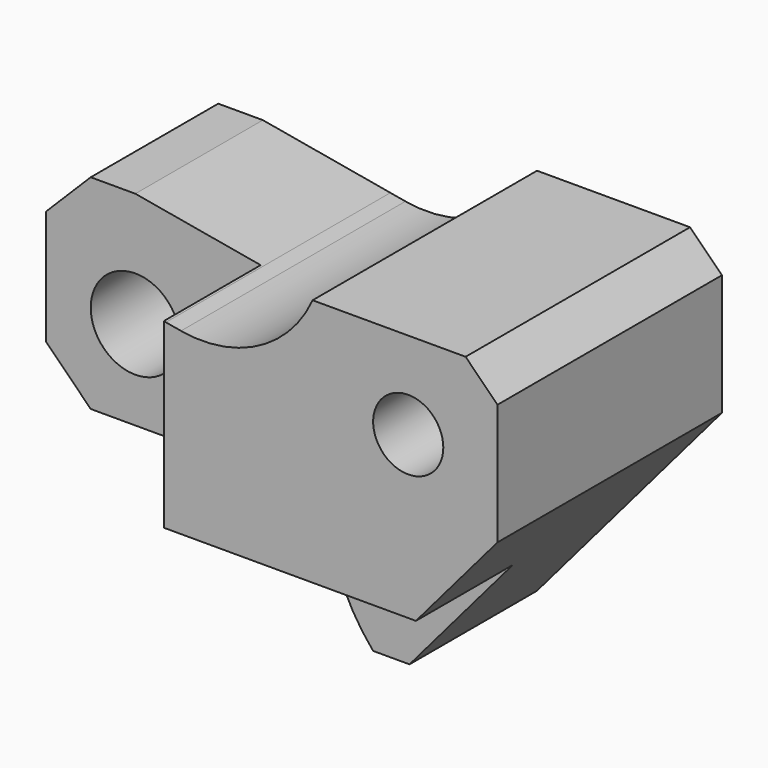
from build123d import *

# Parameters (mm, degrees)
F0_R     = 7
F1_DEPTH = 44
F2_W     = 34
F2_H     = 19
F3_DEPTH = 51.001
F4_W     = 35.544027
F4_H     = 19
F5_DEPTH = 19
F6_R     = 5.5
F7_DEPTH = 44.001


with BuildPart() as f1:
    # F0 (on Front) → F1 (new body)
    with BuildSketch(Plane.XZ):
        Polygon((-7, 18), (-14, 11), (-14, -7), (-7, -14), (20, -14), (20, 14.47346), (0, 18), align=None)
        Circle(F0_R, mode=Mode.SUBTRACT)
        with BuildLine():
            Line((22.361381, 14.057085), (20, 14.47346))
            Line((20, 14.47346), (20, -14))
            Line((20, -14), (25.575539, -14))
            ThreePointArc((25.575539, -14), (28.840775, -15.213414), (30.521178, -18.264706))
            ThreePointArc((30.521178, -18.264706), (32.858008, -26.115672), (37.29698, -33))
            Line((37.29698, -33), (43, -33))
            Line((43, -33), (72, 1))
            Line((72, 1), (72, 20))
            Line((72, 20), (67, 25))
            Line((67, 25), (43, 25))
            ThreePointArc((43, 25), (34.561099, 15.982044), (22.361381, 14.057085))
        make_face()
    extrude(amount=F1_DEPTH)

    # F2 (on face) → F3 (cut, through all)
    with BuildSketch(Plane.XY.offset(18)):
        with Locations((2.657733, -34.5)):
            Rectangle(F2_W, F2_H)
    extrude(amount=-F3_DEPTH, mode=Mode.SUBTRACT)

    # F4 (on face) → F5 (cut)
    with BuildSketch(Plane.XZ.offset(44)):
        with Locations((43.347552, -23.5)):
            Rectangle(F4_W, F4_H)
    extrude(amount=-F5_DEPTH, mode=Mode.SUBTRACT)

    # F6 (on face) → F7 (cut, through all)
    with BuildSketch(Plane.XZ.offset(44)):
        with Locations((58, 11.325206)):
            Circle(F6_R)
    extrude(amount=-F7_DEPTH, mode=Mode.SUBTRACT)


solid = f1.part
